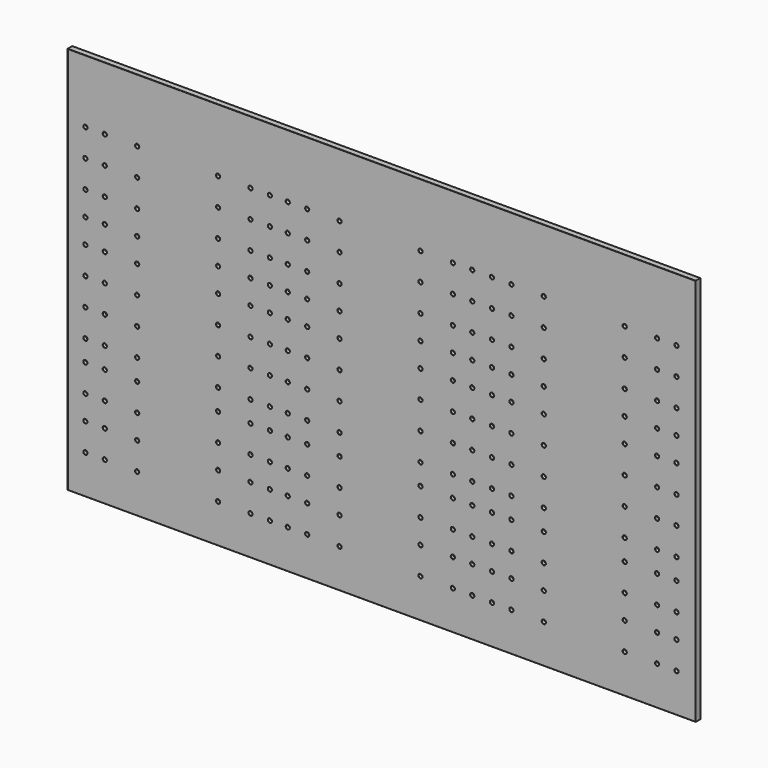
from build123d import *

# Parameters (mm, degrees)
F0_W     = 1940
F0_H     = 1200
F1_DEPTH = 18
F2_R     = 6
F3_DEPTH = 10
F4_SIZE  = 0.5


with BuildPart() as f1:
    # F0 (on Front) → F1 (new body)
    with BuildSketch(Plane.XZ):
        with Locations((970, 600)):
            Rectangle(F0_W, F0_H)
    extrude(amount=F1_DEPTH)

    # F2 (on face) → F3 (cut)
    with BuildSketch(Plane.XZ.offset(18)):
        with Locations((54.859929, 1005)):
            Circle(F2_R)
        with Locations((114.859929, 1005)):
            Circle(F2_R)
        with Locations((214.859929, 1005)):
            Circle(F2_R)
        with Locations((464.859929, 1005)):
            Circle(F2_R)
        with Locations((564.859929, 1005)):
            Circle(F2_R)
        with Locations((624.859929, 1005)):
            Circle(F2_R)
        with Locations((114.859929, 835)):
            Circle(F2_R)
        with Locations((214.859929, 835)):
            Circle(F2_R)
        with Locations((54.859929, 835)):
            Circle(F2_R)
        with Locations((624.859929, 835)):
            Circle(F2_R)
        with Locations((564.859929, 835)):
            Circle(F2_R)
        with Locations((464.859929, 835)):
            Circle(F2_R)
        with Locations((54.859929, 920)):
            Circle(F2_R)
        with Locations((114.859929, 920)):
            Circle(F2_R)
        with Locations((214.859929, 920)):
            Circle(F2_R)
        with Locations((464.859929, 920)):
            Circle(F2_R)
        with Locations((564.859929, 920)):
            Circle(F2_R)
        with Locations((624.859929, 920)):
            Circle(F2_R)
        with Locations((624.859929, 600)):
            Circle(F2_R)
        with Locations((54.859929, 600)):
            Circle(F2_R)
        with Locations((564.859929, 600)):
            Circle(F2_R)
        with Locations((214.859929, 600)):
            Circle(F2_R)
        with Locations((114.859929, 600)):
            Circle(F2_R)
        with Locations((464.859929, 600)):
            Circle(F2_R)
        with Locations((464.859929, 685)):
            Circle(F2_R)
        with Locations((564.859929, 685)):
            Circle(F2_R)
        with Locations((54.859929, 685)):
            Circle(F2_R)
        with Locations((624.859929, 685)):
            Circle(F2_R)
        with Locations((214.859929, 685)):
            Circle(F2_R)
        with Locations((114.859929, 685)):
            Circle(F2_R)
        with Locations((624.859929, 515)):
            Circle(F2_R)
        with Locations((214.859929, 515)):
            Circle(F2_R)
        with Locations((114.859929, 515)):
            Circle(F2_R)
        with Locations((564.859929, 515)):
            Circle(F2_R)
        with Locations((54.859929, 515)):
            Circle(F2_R)
        with Locations((464.859929, 515)):
            Circle(F2_R)
        with Locations((54.859929, 760)):
            Circle(F2_R)
        with Locations((564.859929, 760)):
            Circle(F2_R)
        with Locations((624.859929, 760)):
            Circle(F2_R)
        with Locations((464.859929, 760)):
            Circle(F2_R)
        with Locations((114.859929, 760)):
            Circle(F2_R)
        with Locations((214.859929, 760)):
            Circle(F2_R)
        with Locations((54.859929, 205)):
            Circle(F2_R)
        with Locations((624.859929, 205)):
            Circle(F2_R)
        with Locations((214.859929, 205)):
            Circle(F2_R)
        with Locations((114.859929, 205)):
            Circle(F2_R)
        with Locations((564.859929, 205)):
            Circle(F2_R)
        with Locations((464.859929, 205)):
            Circle(F2_R)
        with Locations((114.859929, 365)):
            Circle(F2_R)
        with Locations((624.859929, 365)):
            Circle(F2_R)
        with Locations((564.859929, 365)):
            Circle(F2_R)
        with Locations((54.859929, 365)):
            Circle(F2_R)
        with Locations((464.859929, 365)):
            Circle(F2_R)
        with Locations((214.859929, 365)):
            Circle(F2_R)
        with Locations((564.859929, 280)):
            Circle(F2_R)
        with Locations((54.859929, 280)):
            Circle(F2_R)
        with Locations((214.859929, 280)):
            Circle(F2_R)
        with Locations((624.859929, 280)):
            Circle(F2_R)
        with Locations((114.859929, 280)):
            Circle(F2_R)
        with Locations((464.859929, 280)):
            Circle(F2_R)
        with Locations((54.859929, 120)):
            Circle(F2_R)
        with Locations((114.859929, 120)):
            Circle(F2_R)
        with Locations((214.859929, 120)):
            Circle(F2_R)
        with Locations((624.859929, 120)):
            Circle(F2_R)
        with Locations((564.859929, 120)):
            Circle(F2_R)
        with Locations((464.859929, 120)):
            Circle(F2_R)
        with Locations((624.859929, 430)):
            Circle(F2_R)
        with Locations((214.859929, 430)):
            Circle(F2_R)
        with Locations((564.859929, 430)):
            Circle(F2_R)
        with Locations((114.859929, 430)):
            Circle(F2_R)
        with Locations((464.859929, 430)):
            Circle(F2_R)
        with Locations((54.859929, 430)):
            Circle(F2_R)
        with Locations((1250.0915, 1005)):
            Circle(F2_R)
        with Locations((740.0915, 685)):
            Circle(F2_R)
        with Locations((740.0915, 365)):
            Circle(F2_R)
        with Locations((680.0915, 515)):
            Circle(F2_R)
        with Locations((680.0915, 685)):
            Circle(F2_R)
        with Locations((1090.0915, 205)):
            Circle(F2_R)
        with Locations((1190.0915, 685)):
            Circle(F2_R)
        with Locations((740.0915, 205)):
            Circle(F2_R)
        with Locations((1250.0915, 205)):
            Circle(F2_R)
        with Locations((1250.0915, 515)):
            Circle(F2_R)
        with Locations((1190.0915, 205)):
            Circle(F2_R)
        with Locations((840.0915, 1005)):
            Circle(F2_R)
        with Locations((840.0915, 365)):
            Circle(F2_R)
        with Locations((1190.0915, 365)):
            Circle(F2_R)
        with Locations((680.0915, 1005)):
            Circle(F2_R)
        with Locations((840.0915, 685)):
            Circle(F2_R)
        with Locations((1090.0915, 1005)):
            Circle(F2_R)
        with Locations((740.0915, 1005)):
            Circle(F2_R)
        with Locations((1190.0915, 835)):
            Circle(F2_R)
        with Locations((740.0915, 835)):
            Circle(F2_R)
        with Locations((1090.0915, 365)):
            Circle(F2_R)
        with Locations((1190.0915, 515)):
            Circle(F2_R)
        with Locations((1090.0915, 515)):
            Circle(F2_R)
        with Locations((680.0915, 205)):
            Circle(F2_R)
        with Locations((680.0915, 365)):
            Circle(F2_R)
        with Locations((840.0915, 515)):
            Circle(F2_R)
        with Locations((1250.0915, 835)):
            Circle(F2_R)
        with Locations((740.0915, 515)):
            Circle(F2_R)
        with Locations((1090.0915, 685)):
            Circle(F2_R)
        with Locations((680.0915, 835)):
            Circle(F2_R)
        with Locations((840.0915, 835)):
            Circle(F2_R)
        with Locations((1090.0915, 835)):
            Circle(F2_R)
        with Locations((840.0915, 205)):
            Circle(F2_R)
        with Locations((1190.0915, 1005)):
            Circle(F2_R)
        with Locations((1250.0915, 365)):
            Circle(F2_R)
        with Locations((1250.0915, 685)):
            Circle(F2_R)
        with Locations((840.0915, 430)):
            Circle(F2_R)
        with Locations((680.0915, 430)):
            Circle(F2_R)
        with Locations((1250.0915, 280)):
            Circle(F2_R)
        with Locations((1190.0915, 760)):
            Circle(F2_R)
        with Locations((1090.0915, 280)):
            Circle(F2_R)
        with Locations((840.0915, 920)):
            Circle(F2_R)
        with Locations((840.0915, 120)):
            Circle(F2_R)
        with Locations((840.0915, 600)):
            Circle(F2_R)
        with Locations((740.0915, 280)):
            Circle(F2_R)
        with Locations((1190.0915, 280)):
            Circle(F2_R)
        with Locations((1250.0915, 430)):
            Circle(F2_R)
        with Locations((840.0915, 760)):
            Circle(F2_R)
        with Locations((1090.0915, 120)):
            Circle(F2_R)
        with Locations((1090.0915, 430)):
            Circle(F2_R)
        with Locations((740.0915, 920)):
            Circle(F2_R)
        with Locations((680.0915, 760)):
            Circle(F2_R)
        with Locations((1190.0915, 920)):
            Circle(F2_R)
        with Locations((740.0915, 600)):
            Circle(F2_R)
        with Locations((1090.0915, 760)):
            Circle(F2_R)
        with Locations((680.0915, 120)):
            Circle(F2_R)
        with Locations((1190.0915, 120)):
            Circle(F2_R)
        with Locations((680.0915, 280)):
            Circle(F2_R)
        with Locations((1250.0915, 600)):
            Circle(F2_R)
        with Locations((1250.0915, 120)):
            Circle(F2_R)
        with Locations((1250.0915, 760)):
            Circle(F2_R)
        with Locations((1250.0915, 920)):
            Circle(F2_R)
        with Locations((840.0915, 280)):
            Circle(F2_R)
        with Locations((740.0915, 430)):
            Circle(F2_R)
        with Locations((740.0915, 120)):
            Circle(F2_R)
        with Locations((1090.0915, 600)):
            Circle(F2_R)
        with Locations((680.0915, 920)):
            Circle(F2_R)
        with Locations((680.0915, 600)):
            Circle(F2_R)
        with Locations((740.0915, 760)):
            Circle(F2_R)
        with Locations((1090.0915, 920)):
            Circle(F2_R)
        with Locations((1190.0915, 600)):
            Circle(F2_R)
        with Locations((1190.0915, 430)):
            Circle(F2_R)
        with Locations((1820.960345, 835)):
            Circle(F2_R)
        with Locations((1880.960345, 205)):
            Circle(F2_R)
        with Locations((1470.960345, 1005)):
            Circle(F2_R)
        with Locations((1720.960345, 685)):
            Circle(F2_R)
        with Locations((1310.960345, 1005)):
            Circle(F2_R)
        with Locations((1310.960345, 515)):
            Circle(F2_R)
        with Locations((1470.960345, 515)):
            Circle(F2_R)
        with Locations((1820.960345, 1005)):
            Circle(F2_R)
        with Locations((1470.960345, 365)):
            Circle(F2_R)
        with Locations((1720.960345, 365)):
            Circle(F2_R)
        with Locations((1370.960345, 835)):
            Circle(F2_R)
        with Locations((1370.960345, 685)):
            Circle(F2_R)
        with Locations((1470.960345, 685)):
            Circle(F2_R)
        with Locations((1880.960345, 835)):
            Circle(F2_R)
        with Locations((1720.960345, 205)):
            Circle(F2_R)
        with Locations((1820.960345, 365)):
            Circle(F2_R)
        with Locations((1720.960345, 835)):
            Circle(F2_R)
        with Locations((1470.960345, 205)):
            Circle(F2_R)
        with Locations((1310.960345, 205)):
            Circle(F2_R)
        with Locations((1370.960345, 205)):
            Circle(F2_R)
        with Locations((1880.960345, 685)):
            Circle(F2_R)
        with Locations((1370.960345, 1005)):
            Circle(F2_R)
        with Locations((1370.960345, 515)):
            Circle(F2_R)
        with Locations((1310.960345, 365)):
            Circle(F2_R)
        with Locations((1880.960345, 515)):
            Circle(F2_R)
        with Locations((1880.960345, 365)):
            Circle(F2_R)
        with Locations((1820.960345, 685)):
            Circle(F2_R)
        with Locations((1880.960345, 1005)):
            Circle(F2_R)
        with Locations((1370.960345, 365)):
            Circle(F2_R)
        with Locations((1820.960345, 205)):
            Circle(F2_R)
        with Locations((1720.960345, 1005)):
            Circle(F2_R)
        with Locations((1820.960345, 515)):
            Circle(F2_R)
        with Locations((1470.960345, 835)):
            Circle(F2_R)
        with Locations((1310.960345, 685)):
            Circle(F2_R)
        with Locations((1310.960345, 835)):
            Circle(F2_R)
        with Locations((1720.960345, 515)):
            Circle(F2_R)
        with Locations((1880.960345, 600)):
            Circle(F2_R)
        with Locations((1720.960345, 600)):
            Circle(F2_R)
        with Locations((1820.960345, 120)):
            Circle(F2_R)
        with Locations((1470.960345, 760)):
            Circle(F2_R)
        with Locations((1820.960345, 280)):
            Circle(F2_R)
        with Locations((1370.960345, 430)):
            Circle(F2_R)
        with Locations((1880.960345, 120)):
            Circle(F2_R)
        with Locations((1370.960345, 920)):
            Circle(F2_R)
        with Locations((1370.960345, 120)):
            Circle(F2_R)
        with Locations((1820.960345, 920)):
            Circle(F2_R)
        with Locations((1820.960345, 600)):
            Circle(F2_R)
        with Locations((1310.960345, 280)):
            Circle(F2_R)
        with Locations((1310.960345, 760)):
            Circle(F2_R)
        with Locations((1880.960345, 920)):
            Circle(F2_R)
        with Locations((1370.960345, 600)):
            Circle(F2_R)
        with Locations((1310.960345, 120)):
            Circle(F2_R)
        with Locations((1310.960345, 430)):
            Circle(F2_R)
        with Locations((1720.960345, 920)):
            Circle(F2_R)
        with Locations((1310.960345, 600)):
            Circle(F2_R)
        with Locations((1370.960345, 760)):
            Circle(F2_R)
        with Locations((1720.960345, 760)):
            Circle(F2_R)
        with Locations((1720.960345, 430)):
            Circle(F2_R)
        with Locations((1820.960345, 760)):
            Circle(F2_R)
        with Locations((1470.960345, 920)):
            Circle(F2_R)
        with Locations((1470.960345, 120)):
            Circle(F2_R)
        with Locations((1310.960345, 920)):
            Circle(F2_R)
        with Locations((1880.960345, 430)):
            Circle(F2_R)
        with Locations((1720.960345, 280)):
            Circle(F2_R)
        with Locations((1880.960345, 280)):
            Circle(F2_R)
        with Locations((1370.960345, 280)):
            Circle(F2_R)
        with Locations((1880.960345, 760)):
            Circle(F2_R)
        with Locations((1470.960345, 600)):
            Circle(F2_R)
        with Locations((1470.960345, 430)):
            Circle(F2_R)
        with Locations((1470.960345, 280)):
            Circle(F2_R)
        with Locations((1720.960345, 120)):
            Circle(F2_R)
        with Locations((1820.960345, 430)):
            Circle(F2_R)
    extrude(amount=-F3_DEPTH, mode=Mode.SUBTRACT)

    # F4
    f4_edges = [f1.edges().sort_by_distance(p)[0] for p in [
        (0, -18, 600),
        (970, -18, 1200),
        (970, -18, 0),
        (1940, -18, 600),
        (48.859929, -18, 120),
        (108.859929, -18, 120),
        (208.859929, -18, 120),
        (48.859929, -18, 205),
        (108.859929, -18, 205),
        (208.859929, -18, 205),
        (458.859929, -18, 120),
        (458.859929, -18, 205),
        (48.859929, -18, 280),
        (108.859929, -18, 280),
        (208.859929, -18, 280),
        (458.859929, -18, 280),
        (558.859929, -18, 120),
        (618.859929, -18, 120),
        (674.0915, -18, 120),
        (558.859929, -18, 205),
        (618.859929, -18, 205),
        (674.0915, -18, 205),
        (734.0915, -18, 120),
        (834.0915, -18, 120),
        (734.0915, -18, 205),
        (834.0915, -18, 205),
        (558.859929, -18, 280),
        (618.859929, -18, 280),
        (674.0915, -18, 280),
        (734.0915, -18, 280),
        (834.0915, -18, 280),
        (48.859929, -18, 365),
        (108.859929, -18, 365),
        (208.859929, -18, 365),
        (48.859929, -18, 430),
        (108.859929, -18, 430),
        (208.859929, -18, 430),
        (458.859929, -18, 365),
        (458.859929, -18, 430),
        (48.859929, -18, 515),
        (108.859929, -18, 515),
        (208.859929, -18, 515),
        (458.859929, -18, 515),
        (558.859929, -18, 365),
        (618.859929, -18, 365),
        (674.0915, -18, 365),
        (558.859929, -18, 430),
        (618.859929, -18, 430),
        (674.0915, -18, 430),
        (734.0915, -18, 365),
        (834.0915, -18, 365),
        (734.0915, -18, 430),
        (834.0915, -18, 430),
        (558.859929, -18, 515),
        (618.859929, -18, 515),
        (674.0915, -18, 515),
        (734.0915, -18, 515),
        (834.0915, -18, 515),
        (1084.0915, -18, 120),
        (1184.0915, -18, 120),
        (1084.0915, -18, 205),
        (1184.0915, -18, 205),
        (1244.0915, -18, 120),
        (1304.960345, -18, 120),
        (1364.960345, -18, 120),
        (1244.0915, -18, 205),
        (1304.960345, -18, 205),
        (1364.960345, -18, 205),
        (1084.0915, -18, 280),
        (1184.0915, -18, 280),
        (1244.0915, -18, 280),
        (1304.960345, -18, 280),
        (1364.960345, -18, 280),
        (1464.960345, -18, 120),
        (1464.960345, -18, 205),
        (1714.960345, -18, 120),
        (1814.960345, -18, 120),
        (1874.960345, -18, 120),
        (1714.960345, -18, 205),
        (1814.960345, -18, 205),
        (1874.960345, -18, 205),
        (1464.960345, -18, 280),
        (1714.960345, -18, 280),
        (1814.960345, -18, 280),
        (1874.960345, -18, 280),
        (1084.0915, -18, 365),
        (1184.0915, -18, 365),
        (1084.0915, -18, 430),
        (1184.0915, -18, 430),
        (1244.0915, -18, 365),
        (1304.960345, -18, 365),
        (1364.960345, -18, 365),
        (1244.0915, -18, 430),
        (1304.960345, -18, 430),
        (1364.960345, -18, 430),
        (1084.0915, -18, 515),
        (1184.0915, -18, 515),
        (1244.0915, -18, 515),
        (1304.960345, -18, 515),
        (1364.960345, -18, 515),
        (1464.960345, -18, 365),
        (1464.960345, -18, 430),
        (1714.960345, -18, 365),
        (1814.960345, -18, 365),
        (1874.960345, -18, 365),
        (1714.960345, -18, 430),
        (1814.960345, -18, 430),
        (1874.960345, -18, 430),
        (1464.960345, -18, 515),
        (1714.960345, -18, 515),
        (1814.960345, -18, 515),
        (1874.960345, -18, 515),
        (48.859929, -18, 600),
        (108.859929, -18, 600),
        (208.859929, -18, 600),
        (458.859929, -18, 600),
        (48.859929, -18, 685),
        (108.859929, -18, 685),
        (208.859929, -18, 685),
        (48.859929, -18, 760),
        (108.859929, -18, 760),
        (208.859929, -18, 760),
        (458.859929, -18, 685),
        (458.859929, -18, 760),
        (558.859929, -18, 600),
        (618.859929, -18, 600),
        (674.0915, -18, 600),
        (734.0915, -18, 600),
        (834.0915, -18, 600),
        (558.859929, -18, 685),
        (618.859929, -18, 685),
        (674.0915, -18, 685),
        (558.859929, -18, 760),
        (618.859929, -18, 760),
        (674.0915, -18, 760),
        (734.0915, -18, 685),
        (834.0915, -18, 685),
        (734.0915, -18, 760),
        (834.0915, -18, 760),
        (48.859929, -18, 835),
        (108.859929, -18, 835),
        (208.859929, -18, 835),
        (458.859929, -18, 835),
        (48.859929, -18, 920),
        (108.859929, -18, 920),
        (208.859929, -18, 920),
        (48.859929, -18, 1005),
        (108.859929, -18, 1005),
        (208.859929, -18, 1005),
        (458.859929, -18, 920),
        (458.859929, -18, 1005),
        (558.859929, -18, 835),
        (618.859929, -18, 835),
        (674.0915, -18, 835),
        (734.0915, -18, 835),
        (834.0915, -18, 835),
        (558.859929, -18, 920),
        (618.859929, -18, 920),
        (674.0915, -18, 920),
        (558.859929, -18, 1005),
        (618.859929, -18, 1005),
        (674.0915, -18, 1005),
        (734.0915, -18, 920),
        (834.0915, -18, 920),
        (734.0915, -18, 1005),
        (834.0915, -18, 1005),
        (1084.0915, -18, 600),
        (1184.0915, -18, 600),
        (1244.0915, -18, 600),
        (1304.960345, -18, 600),
        (1364.960345, -18, 600),
        (1084.0915, -18, 685),
        (1184.0915, -18, 685),
        (1084.0915, -18, 760),
        (1184.0915, -18, 760),
        (1244.0915, -18, 685),
        (1304.960345, -18, 685),
        (1364.960345, -18, 685),
        (1244.0915, -18, 760),
        (1304.960345, -18, 760),
        (1364.960345, -18, 760),
        (1464.960345, -18, 600),
        (1714.960345, -18, 600),
        (1814.960345, -18, 600),
        (1874.960345, -18, 600),
        (1464.960345, -18, 685),
        (1464.960345, -18, 760),
        (1714.960345, -18, 685),
        (1814.960345, -18, 685),
        (1874.960345, -18, 685),
        (1714.960345, -18, 760),
        (1814.960345, -18, 760),
        (1874.960345, -18, 760),
        (1084.0915, -18, 835),
        (1184.0915, -18, 835),
        (1244.0915, -18, 835),
        (1304.960345, -18, 835),
        (1364.960345, -18, 835),
        (1084.0915, -18, 920),
        (1184.0915, -18, 920),
        (1084.0915, -18, 1005),
        (1184.0915, -18, 1005),
        (1244.0915, -18, 920),
        (1304.960345, -18, 920),
        (1364.960345, -18, 920),
        (1244.0915, -18, 1005),
        (1304.960345, -18, 1005),
        (1364.960345, -18, 1005),
        (1464.960345, -18, 835),
        (1714.960345, -18, 835),
        (1814.960345, -18, 835),
        (1874.960345, -18, 835),
        (1464.960345, -18, 920),
        (1464.960345, -18, 1005),
        (1714.960345, -18, 920),
        (1814.960345, -18, 920),
        (1874.960345, -18, 920),
        (1714.960345, -18, 1005),
        (1814.960345, -18, 1005),
        (1874.960345, -18, 1005),
    ]]
    chamfer(f4_edges, length=F4_SIZE)


solid = f1.part
